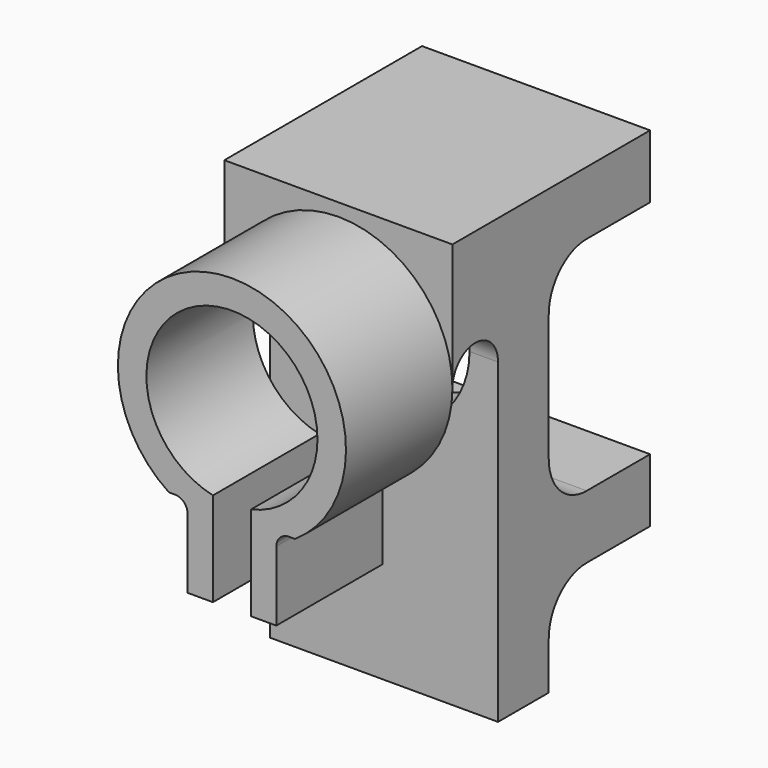
from build123d import *

# Parameters (mm, degrees)
SKETCH017_AS_DRAWN_W                 = 6
SKETCH017_AS_DRAWN_H                 = 25
EXTRUDE002_DEPTH                     = 30
EXTRUDE002_ONTO_SKETCH017_ROLL_ANGLE = 90
SKETCH016_AS_DRAWN_R                 = 13.5
EXTRUDE001_DEPTH                     = 45
EXTRUDE001_ONTO_SKETCH016_ROLL_ANGLE = 90
EXTRUDE_DEPTH                        = 38
SKETCH014_W                          = 22
SKETCH014_H                          = 20
BOX_W                                = 36
BOX_H                                = 60
BOX_DEPTH                            = 70


with BuildPart() as arc_ext:
    # Sketch017 as drawn → Extrude002 (new)
    with BuildSketch(Plane.XY):
        with BuildLine():
            Line((9, 35), (20, 35))
            Line((20, 35), (20, 20))
            Line((20, 20), (7, 20))
            Line((7, 20), (7, 33))
            ThreePointArc((9, 35), (7.585786, 34.414214), (7, 33))
        make_face()
        with BuildLine():
            Line((-9, 35), (-20, 35))
            Line((-20, 35), (-20, 20))
            Line((-20, 20), (-7, 20))
            Line((-7, 20), (-7, 33))
            ThreePointArc((-7, 33), (-7.585786, 34.414214), (-9, 35))
        make_face()
        with Locations((0, 27.5)):
            Rectangle(SKETCH017_AS_DRAWN_W, SKETCH017_AS_DRAWN_H)
    extrude(amount=-EXTRUDE002_DEPTH)


with BuildPart() as arc_ext_1:
    # Extrude002 onto Sketch017 roll: moved
    add(arc_ext.part.rotate(Axis((0, 0, 0), (1, 0, 0)), EXTRUDE002_ONTO_SKETCH017_ROLL_ANGLE))


with BuildPart() as arc_ext_2:
    # Extrude002 onto Sketch017 placement: moved
    add(arc_ext_1.part)


with BuildPart() as arc_ext_3:
    # Extrude002 placement: moved
    add(arc_ext_2.part.moved(Location((0, -1, 0))))


with BuildPart() as fusion:
    # Sketch016 as drawn → Extrude001 (new)
    with BuildSketch(Plane.XY):
        with Locations((0, 50)):
            Circle(SKETCH016_AS_DRAWN_R)
    extrude(amount=-EXTRUDE001_DEPTH)


with BuildPart() as fusion_1:
    # Extrude001 onto Sketch016 roll: moved
    add(fusion.part.rotate(Axis((0, 0, 0), (1, 0, 0)), EXTRUDE001_ONTO_SKETCH016_ROLL_ANGLE))


with BuildPart() as fusion_2:
    # Extrude001 onto Sketch016 placement: moved
    add(fusion_1.part)


with BuildPart() as fusion_3:
    # Extrude001 placement: moved
    add(fusion_2.part.moved(Location((0, -1, 0))))

    # Fusion: union arc-ext
    add(arc_ext_3.part)


with BuildPart() as extrude_body:
    # Sketch → Extrude (new body)
    with BuildSketch(Plane.YZ):
        with BuildLine():
            Line((61, 60), (47.5, 60))
            ThreePointArc((47.5, 60), (42.196699, 57.803301), (40, 52.5))
            Line((40, 52.5), (40, 32.5))
            ThreePointArc((40, 32.5), (42.196699, 27.196699), (47.5, 25))
            Line((47.5, 25), (61, 25))
            Line((61, 25), (61, 60))
        make_face()
        with BuildLine():
            Line((61, 15), (47.5, 15))
            ThreePointArc((47.5, 15), (42.196699, 12.803301), (40, 7.5))
            Line((40, 7.5), (40, -2))
            Line((40, -2), (61, -2))
            Line((61, -2), (61, 15))
        make_face()
        with BuildLine():
            Line((30, 50), (30, -2))
            Line((30, -2), (-2, -2))
            Line((-2, -2), (-2, 22))
            Line((-2, 22), (21, 22))
            Line((21, 22), (21, 50))
            ThreePointArc((30, 50), (25.5, 54.5), (21, 50))
        make_face()
    extrude(amount=EXTRUDE_DEPTH)


with BuildPart() as extrude_body_1:
    # Extrude placement: moved
    add(extrude_body.part.moved(Location((-19, 0, 0))))


with BuildPart() as sweep_body:
    # Sweep: sweep along a path in Sketch015
    with BuildLine(Plane.XZ) as sweep_path:
        ThreePointArc((4, 40.834849), (0, 60), (-4, 40.834849))
    # Sketch014 → Sweep (sweep)
    with BuildSketch(Plane(origin=(0, -1, 0), x_dir=(0, 1, 0), z_dir=(1, 0, 0))):
        with Locations((11, 78)):
            Rectangle(SKETCH014_W, SKETCH014_H)
    sweep(path=sweep_path.line)


with BuildPart() as cut002:
    # Box → Box (new body)
    with BuildSketch(Plane(origin=(-18, 0, 0), x_dir=(1, 0, 0), z_dir=(0, 0, 1))):
        with Locations((18, 30)):
            Rectangle(BOX_W, BOX_H)
    extrude(amount=BOX_DEPTH)

    # Cut: cut Sweep body
    add(sweep_body.part, mode=Mode.SUBTRACT)

    # Cut001: cut Extrude body
    add(extrude_body_1.part, mode=Mode.SUBTRACT)

    # Cut002: cut Fusion
    add(fusion_3.part, mode=Mode.SUBTRACT)


solid = cut002.part
